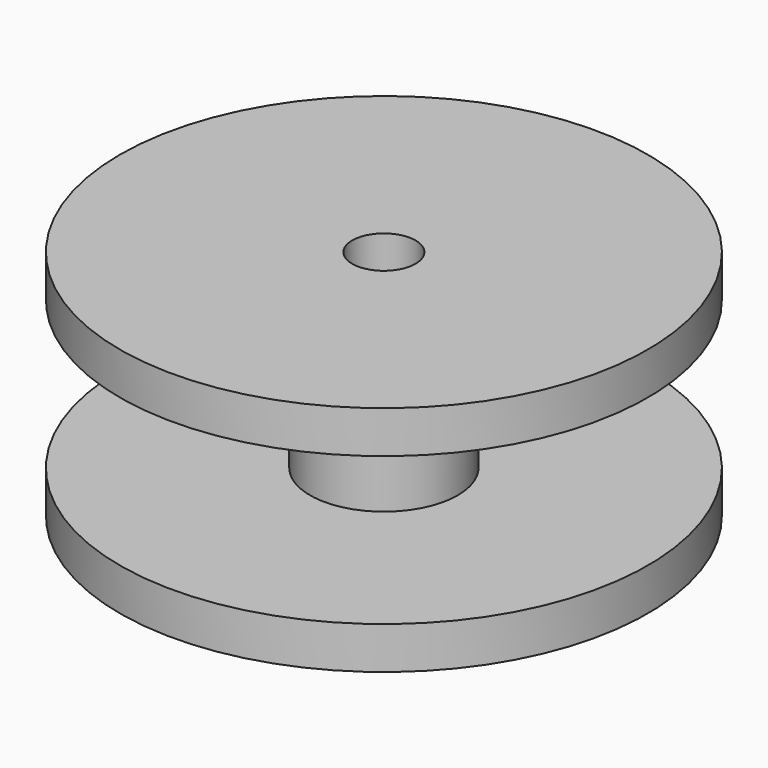
from build123d import *

# Parameters (mm, degrees)
F0_W     = 31.75
F0_H     = 27.94
F2_R     = 3.81
F3_DEPTH = 70.2046528459
F4_T     = -5.08


with BuildPart() as f1:
    # F0 (on Front) → F1 (revolve)
    with BuildSketch(Plane.XZ):
        with Locations((-0.1187622547, 17.9933030483)):
            Rectangle(F0_W, F0_H)
    revolve(axis=Axis((15.7562377453, 0, 17.9933030483), (0, 0, -1)))

    # F2 (on face) → F3 (cut)
    with BuildSketch(Plane.XY.offset(31.9633030483)):
        with Locations((15.7562377453, 0)):
            Circle(F2_R)
    extrude(amount=-F3_DEPTH, mode=Mode.SUBTRACT)

    # F4
    f4_openings = [f1.faces().sort_by_distance(p)[0] for p in [
        (47.506238, 0, 17.993303),
    ]]
    offset(amount=F4_T, openings=f4_openings)


solid = f1.part
